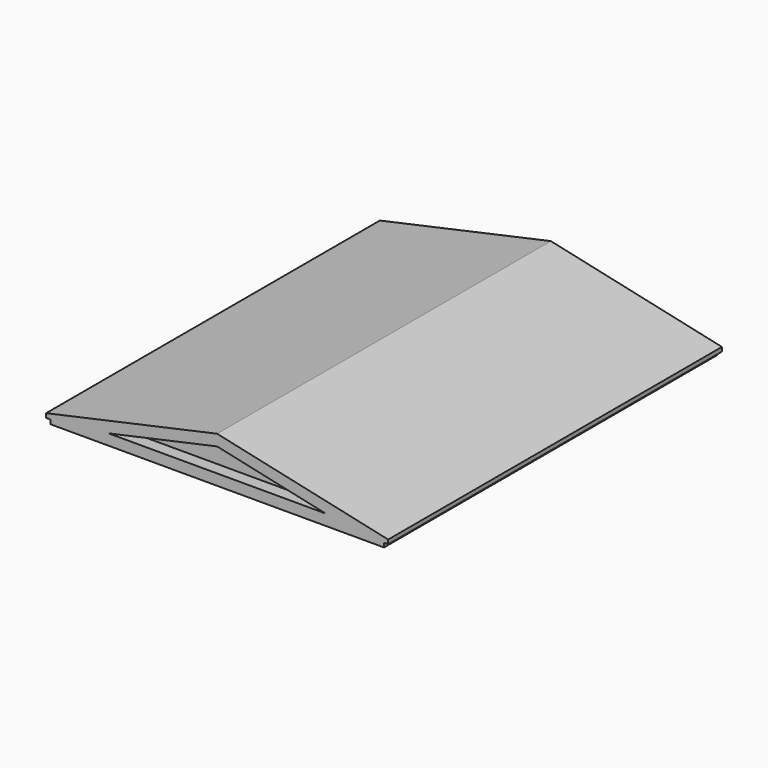
from build123d import *

# Parameters (mm, degrees)
F1_DEPTH = 100
F3_DEPTH = 3
F5_DEPTH = 3


with BuildPart() as f1:
    # F0 (on Front) → F1 (new body)
    with BuildSketch(Plane.XZ):
        Polygon((-40, 0), (0, 0), (40, 0), (40, 1), (41, 1), (41, 2), (0, 10.992676), (-41, 2), (-41, 1), (-40, 1), align=None)
    extrude(amount=F1_DEPTH)

    # F2 (on face) → F3 (cut)
    with BuildSketch(Plane(origin=(0, 0, 0), x_dir=(-1, 0, 0), z_dir=(0, 1, 0))):
        Polygon((0, 8.315965), (-25.994221, 2.61456), (0, 2.61456), align=None)
        Polygon((25.994221, 2.61456), (0, 8.315965), (0, 2.61456), align=None)
    extrude(amount=-F3_DEPTH, mode=Mode.SUBTRACT)

    # F4 (on face) → F5 (cut)
    with BuildSketch(Plane.XZ.offset(100)):
        Polygon((0, 2.61456), (25.994221, 2.61456), (0, 8.315965), (-25.994221, 2.61456), align=None)
    extrude(amount=-F5_DEPTH, mode=Mode.SUBTRACT)


solid = f1.part
